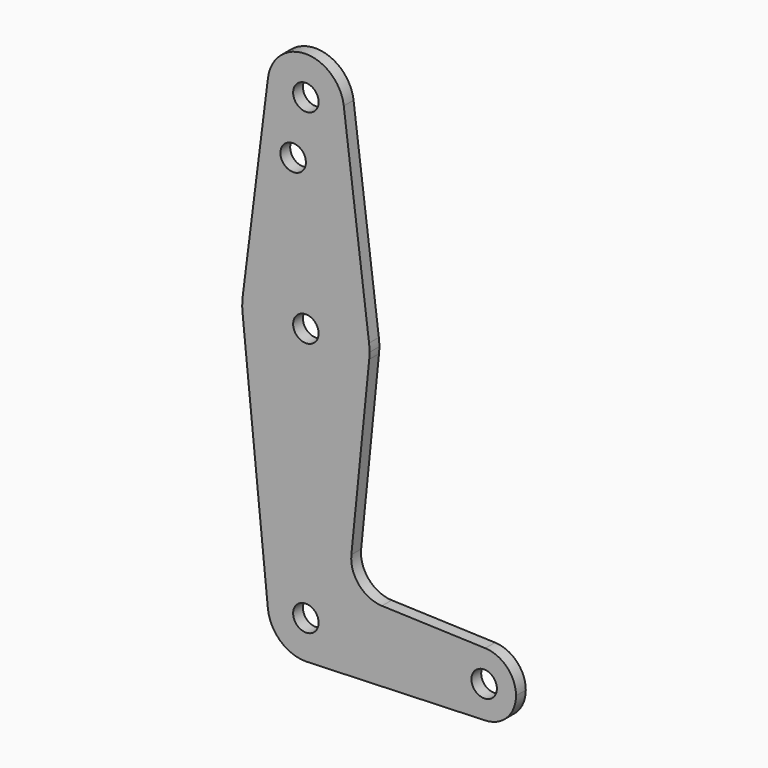
from build123d import *

# Parameters (mm, degrees)
F0_R     = 3.175
F1_DEPTH = 3.048


with BuildPart() as f1:
    # F0 (on Front) → F1 (new body)
    with BuildSketch(Plane.XZ):
        with BuildLine():
            ThreePointArc((9.450293, 115.490625), (9.506305, 114.896483), (9.525, 114.3))
            ThreePointArc((9.525, 114.3), (-0.596483, 104.793695), (-9.450293, 115.490625))
            Line((-9.450293, 115.490625), (-15.750488, 65.484375))
            ThreePointArc((-15.750488, 65.484375), (0, 79.375), (15.750488, 65.484375))
            Line((15.750488, 65.484375), (9.450293, 115.490625))
        make_face()
        with Locations((-3.175, 100.0252)):
            Circle(F0_R, mode=Mode.SUBTRACT)
        with BuildLine():
            ThreePointArc((-9.450293, 115.490625), (-0.596483, 104.793695), (9.525, 114.3))
            ThreePointArc((9.525, 114.3), (9.506305, 114.896483), (9.450293, 115.490625))
            ThreePointArc((9.450293, 115.490625), (0, 123.825), (-9.450293, 115.490625))
        make_face()
        with Locations((0, 114.3)):
            Circle(F0_R, mode=Mode.SUBTRACT)
        with BuildLine():
            ThreePointArc((15.875, 63.5), (15.843841, 64.494139), (15.750488, 65.484375))
            ThreePointArc((15.750488, 65.484375), (0, 79.375), (-15.750488, 65.484375))
            ThreePointArc((-15.750488, 65.484375), (-15.873744, 63.699705), (-15.795426, 61.9125))
            ThreePointArc((-15.795426, 61.9125), (0, 47.625), (15.795426, 61.9125))
            ThreePointArc((15.795426, 61.9125), (15.855094, 62.705253), (15.875, 63.5))
        make_face()
        with Locations((0, 63.5)):
            Circle(F0_R, mode=Mode.SUBTRACT)
        with BuildLine():
            ThreePointArc((15.795426, 61.9125), (0, 47.625), (-15.795426, 61.9125))
            Line((-15.795426, 61.9125), (-9.477255, -0.9525))
            ThreePointArc((-9.477255, -0.9525), (-0.476848, 9.513056), (9.525, 0))
            ThreePointArc((9.525, 0), (6.970557, -6.491299), (0.677344, -9.500886))
            Line((0.677344, -9.500886), (44.732405, -7.932475))
            ThreePointArc((44.732405, -7.932475), (36.5125, 0), (44.732405, 7.932475))
            Line((44.732405, 7.932475), (18.968328, 8.849706))
            ThreePointArc((18.968328, 8.849706), (13.261204, 11.567463), (11.340836, 17.589892))
            Line((11.340836, 17.589892), (15.795426, 61.9125))
        make_face()
        with BuildLine():
            ThreePointArc((9.525, 0), (-0.476848, 9.513056), (-9.477255, -0.9525))
            ThreePointArc((-9.477255, -0.9525), (-6.389564, -7.063929), (0, -9.525))
            Line((0, -9.525), (0.677344, -9.500886))
            ThreePointArc((0.677344, -9.500886), (6.970557, -6.491299), (9.525, 0))
        make_face()
        Circle(F0_R, mode=Mode.SUBTRACT)
        with BuildLine():
            ThreePointArc((52.3875, 0), (50.161633, 5.51191), (44.732405, 7.932475))
            ThreePointArc((44.732405, 7.932475), (36.5125, 0), (44.732405, -7.932475))
            ThreePointArc((44.732405, -7.932475), (50.161633, -5.51191), (52.3875, 0))
        make_face()
        with Locations((44.45, 0)):
            Circle(F0_R, mode=Mode.SUBTRACT)
    extrude(amount=F1_DEPTH)


solid = f1.part
